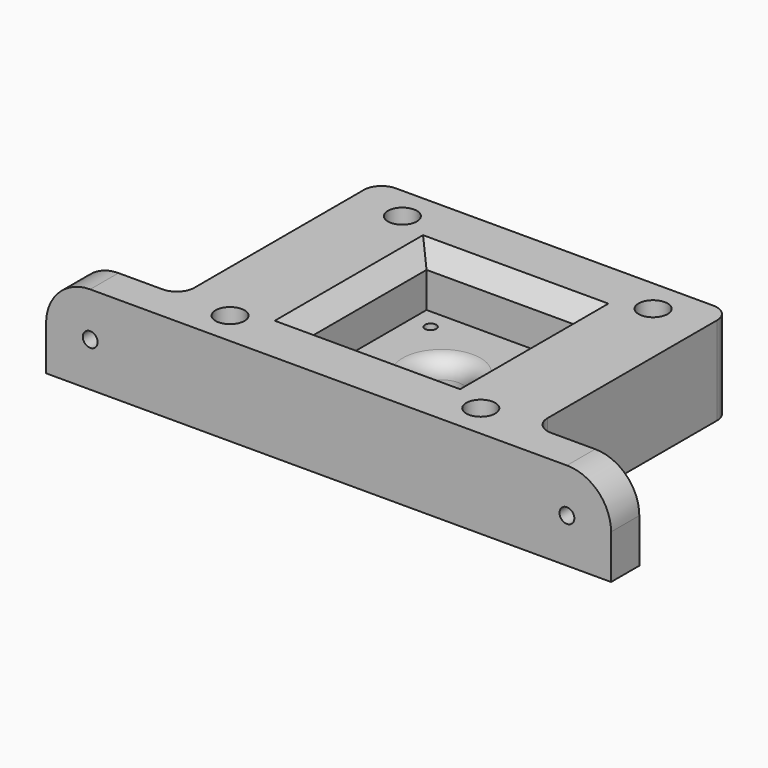
from build123d import *

# Parameters (mm, degrees)
F0_R      = 4.1
F0_W      = 42.5
F0_H      = 42.5
F0_W_2    = 30
F0_H_2    = 10
F1_DEPTH  = 25
F0_R_2    = 1.6
F0_R_3    = 6
F2_DEPTH  = 10
F3_SIZE   = 5
F4_R      = 5
F5_R      = 5
F6_R      = 2.1
F7_DEPTH  = 25
F8_R      = 12.5
F9_R      = 2.1
F10_DEPTH = 25


with BuildPart() as f1:
    # F0 (on Top) → F1 (new body)
    with BuildSketch(Plane.XY):
        Polygon((-50, -30), (-50, -40), (50, -40), (50, -30), (50, 40), (-50, 40), align=None)
        with Locations((-35.5, -30.5)):
            Circle(F0_R, mode=Mode.SUBTRACT)
        with Locations((35.5, -30.5)):
            Circle(F0_R, mode=Mode.SUBTRACT)
        with Locations((-35.5, 30.5)):
            Circle(F0_R, mode=Mode.SUBTRACT)
        Rectangle(F0_W, F0_H, mode=Mode.SUBTRACT)
        with Locations((35.5, 30.5)):
            Circle(F0_R, mode=Mode.SUBTRACT)
        with Locations((-65, -35)):
            Rectangle(F0_W_2, F0_H_2)
        with Locations((65, -35)):
            Rectangle(F0_W_2, F0_H_2)
    extrude(amount=F1_DEPTH)

    # F0 (on Top) → F2 (join)
    with BuildSketch(Plane.XY):
        Rectangle(F0_W, F0_H)
        with Locations((-15.5, -15.5)):
            Circle(F0_R_2, mode=Mode.SUBTRACT)
        with Locations((15.5, -15.5)):
            Circle(F0_R_2, mode=Mode.SUBTRACT)
        with Locations((-15.5, 15.5)):
            Circle(F0_R_2, mode=Mode.SUBTRACT)
        Circle(F0_R_3, mode=Mode.SUBTRACT)
        with Locations((15.5, 15.5)):
            Circle(F0_R_2, mode=Mode.SUBTRACT)
    extrude(amount=F2_DEPTH)

    # F3
    f3_edges = [f1.edges().sort_by_distance(p)[0] for p in [
        (-21.25, 0, 25),
        (0, 21.25, 25),
        (21.25, 0, 25),
        (0, -21.25, 25),
    ]]
    chamfer(f3_edges, length=F3_SIZE)

    # F4
    f4_edges = [f1.edges().sort_by_distance(p)[0] for p in [
        (-6, 0, 10),
    ]]
    fillet(f4_edges, radius=F4_R)

    # F5
    f5_edges = [f1.edges().sort_by_distance(p)[0] for p in [
        (50, -30, 12.5),
        (-50, -30, 12.5),
        (-50, 40, 12.5),
        (50, 40, 12.5),
    ]]
    fillet(f5_edges, radius=F5_R)

    # F6 (on face) → F7 (cut)
    with BuildSketch(Plane(origin=(0, -30, 0), x_dir=(-1, 0, 0), z_dir=(0, 1, 0))):
        with Locations((67.5, 12.5)):
            Circle(F6_R)
    extrude(amount=-F7_DEPTH, mode=Mode.SUBTRACT)

    # F8
    f8_edges = [f1.edges().sort_by_distance(p)[0] for p in [
        (-80, -35, 25),
        (80, -35, 25),
    ]]
    fillet(f8_edges, radius=F8_R)

    # F9 (on face) → F10 (cut)
    with BuildSketch(Plane(origin=(0, -30, 0), x_dir=(-1, 0, 0), z_dir=(0, 1, 0))):
        with Locations((-67.5, 12.5)):
            Circle(F9_R)
    extrude(amount=-F10_DEPTH, mode=Mode.SUBTRACT)


solid = f1.part
